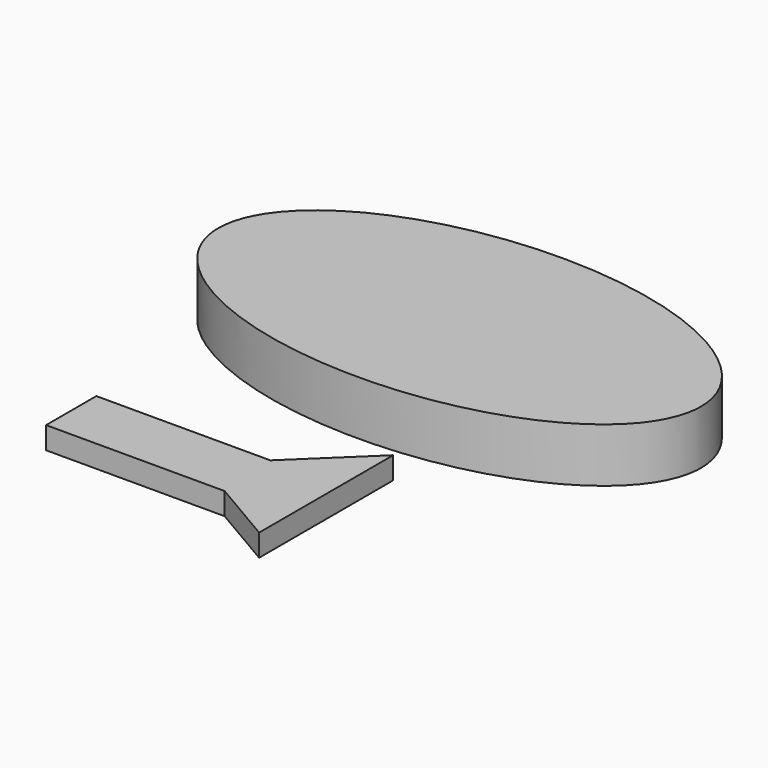
from build123d import *

# Parameters (mm, degrees)
F1_DEPTH = 19.237032
F3_DEPTH = 7.883858


with BuildPart() as f1:
    # F0 (on Top) → F1 (new body)
    with BuildSketch(Plane.XY):
        with BuildLine():
            add(Edge.make_bspline(
                [(44.1847, 18.392771), (44.1847, 97.501368), (-84.562261, 57.94707), (-213.309221, 18.392771), (-84.562261, -21.161527), (44.1847, -60.715825), (44.1847, 18.392771)],
                knots=[0, 0, 0, 2.094395, 2.094395, 4.18879, 4.18879, 6.283185, 6.283185, 6.283185], degree=2, weights=[1, 0.5, 1, 0.5, 1, 0.5, 1]))
        make_face()
    extrude(amount=F1_DEPTH)


with BuildPart() as f3:
    # F2 (on Top) → F3 (new body)
    with BuildSketch(Plane.XY):
        Polygon((-42.596653, -64.540789), (-104.449637, -64.540789), (-104.449637, -86.882606), (-40.960804, -86.882606), (-17.891064, -100.392535), (-17.891064, -40.809929), align=None)
    extrude(amount=F3_DEPTH)


solid = Compound([f1.part, f3.part])
